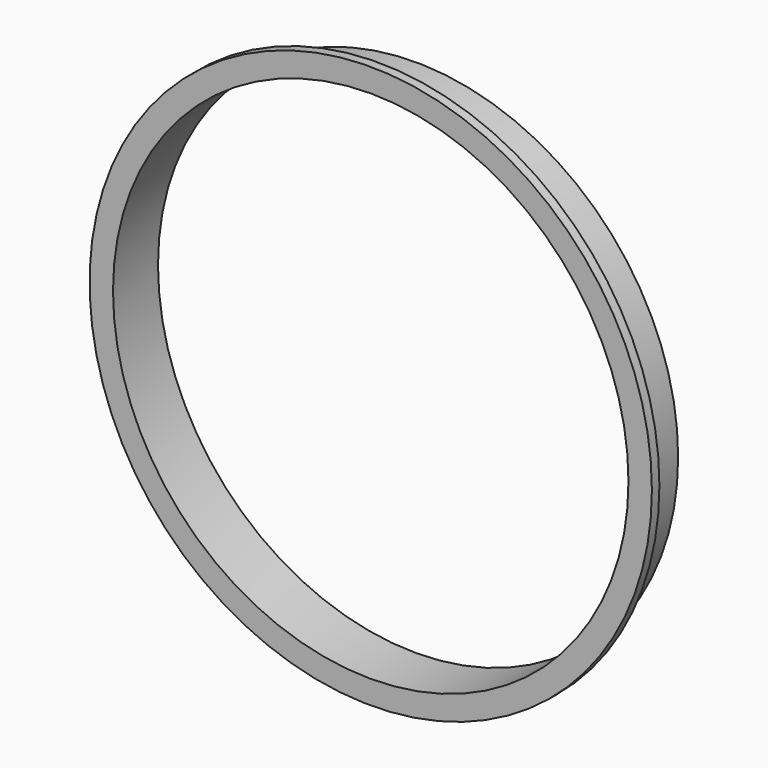
from build123d import *

# Parameters (mm, degrees)
F0_R     = 300
F0_R_2   = 280
F1_DEPTH = 10
F0_R_3   = 275
F2_DEPTH = 60


with BuildPart() as f1:
    # F0 (on Front) → F1 (new body)
    with BuildSketch(Plane.XZ):
        with Locations((0.219399, 0.219403)):
            Circle(F0_R)
        with Locations((0.219399, 0.219403)):
            Circle(F0_R_2, mode=Mode.SUBTRACT)
    extrude(amount=-F1_DEPTH)

    # F0 (on Front) → F2 (join)
    with BuildSketch(Plane.XZ):
        with Locations((0.219399, 0.219403)):
            Circle(F0_R_2)
        with Locations((0.219399, 0.219403)):
            Circle(F0_R_3, mode=Mode.SUBTRACT)
    extrude(amount=-F2_DEPTH)


solid = f1.part
